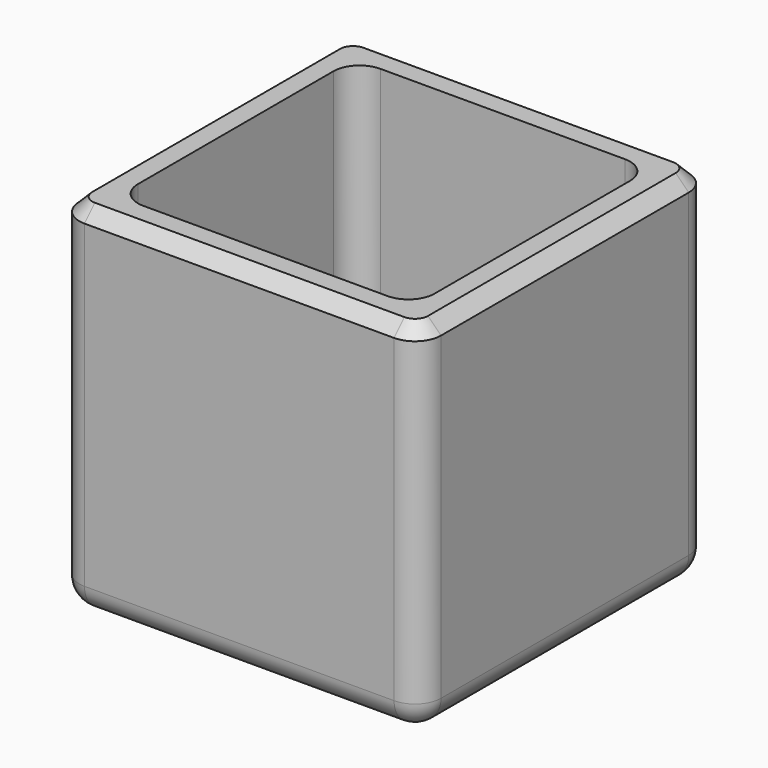
from build123d import *

# Parameters (mm, degrees)
F0_W     = 70.4970285296
F0_H     = 70.4970285296
F1_DEPTH = 34.925
F2_T     = -6.35
F3_R     = 5.08
F4_SIZE  = 2.54


with BuildPart() as f1:
    # F0 (on Top) → F1 (new body, symmetric)
    with BuildSketch(Plane.XY):
        Rectangle(F0_W, F0_H)
    extrude(amount=F1_DEPTH, both=True)

    # F2
    f2_openings = [f1.faces().sort_by_distance(p)[0] for p in [
        (0, 0, 34.925),
    ]]
    offset(amount=F2_T, openings=f2_openings)

    # F3
    f3_edges = [f1.edges().sort_by_distance(p)[0] for p in [
        (0, 35.248514, -34.925),
        (0, -35.248514, -34.925),
        (35.248514, 0, -34.925),
        (-35.248514, 0, -34.925),
        (0, -28.898514, -28.575),
        (28.898514, 0, -28.575),
        (-28.898514, 0, -28.575),
        (0, 28.898514, -28.575),
        (35.248514, -35.248514, 0),
        (35.248514, 35.248514, 0),
        (-35.248514, 35.248514, 0),
        (-35.248514, -35.248514, 0),
        (-28.898514, 28.898514, 3.175),
        (28.898514, 28.898514, 3.175),
        (28.898514, -28.898514, 3.175),
        (-28.898514, -28.898514, 3.175),
    ]]
    fillet(f3_edges, radius=F3_R)

    # F4
    f4_edges = [f1.edges().sort_by_distance(p)[0] for p in [
        (-35.248514, 0, 34.925),
    ]]
    chamfer(f4_edges, length=F4_SIZE)


solid = f1.part
